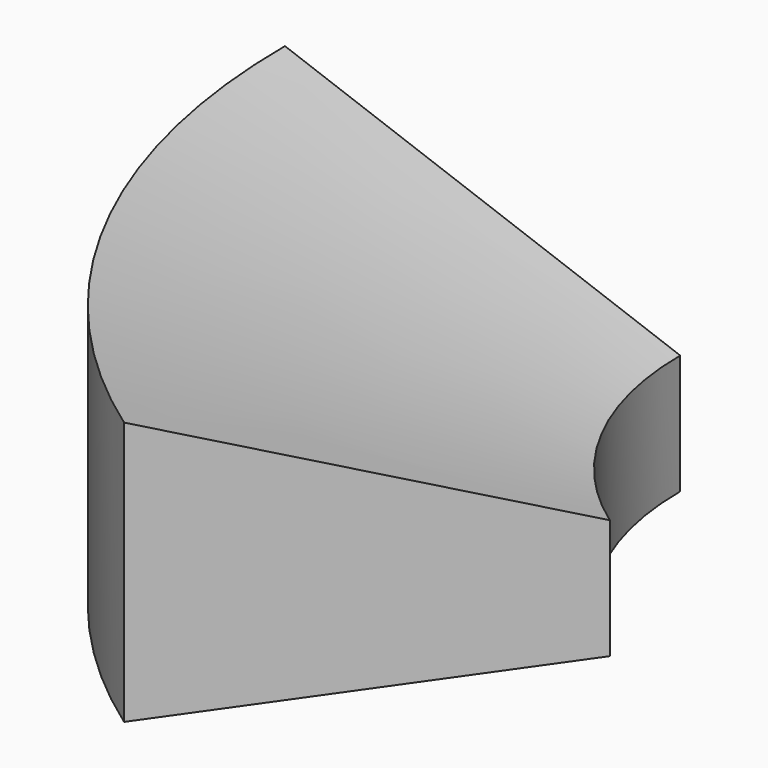
from build123d import *

# Parameters (mm, degrees)
F1_ANGLE = 55


with BuildPart() as f1:
    # F0 (on Front) → F1 (revolve)
    with BuildSketch(Plane.XZ):
        Polygon((-50.8, 19.05), (-50.8, 0), (-22.225, 0), (-22.225, 8.649551), align=None)
    revolve(axis=Axis((0, 0, 12.632447), (0, 0, 1)), revolution_arc=F1_ANGLE)


solid = f1.part
